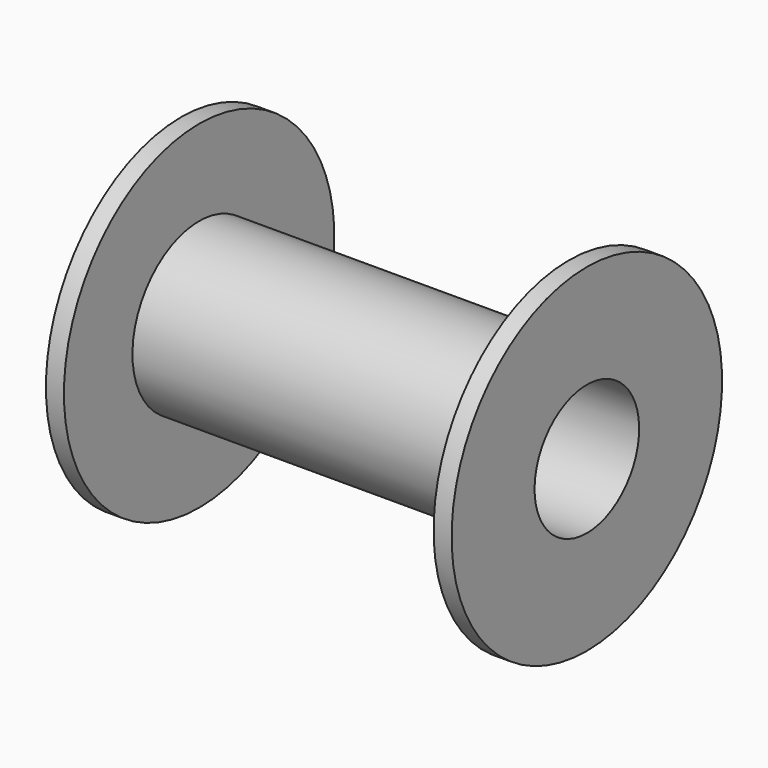
from build123d import *


with BuildPart() as part:
    # Sketch → Revolution (revolve)
    with BuildSketch(Plane.XZ):
        Polygon((-9, -2.9), (-9, -7.5), (-8.2, -7.5), (-8.2, -3.7), (8.2, -3.7), (8.2, -7.5), (9, -7.5), (9, -2.9), align=None)
    revolve(axis=Axis((0, 0, 0), (1, 0, 0)))


solid = part.part
